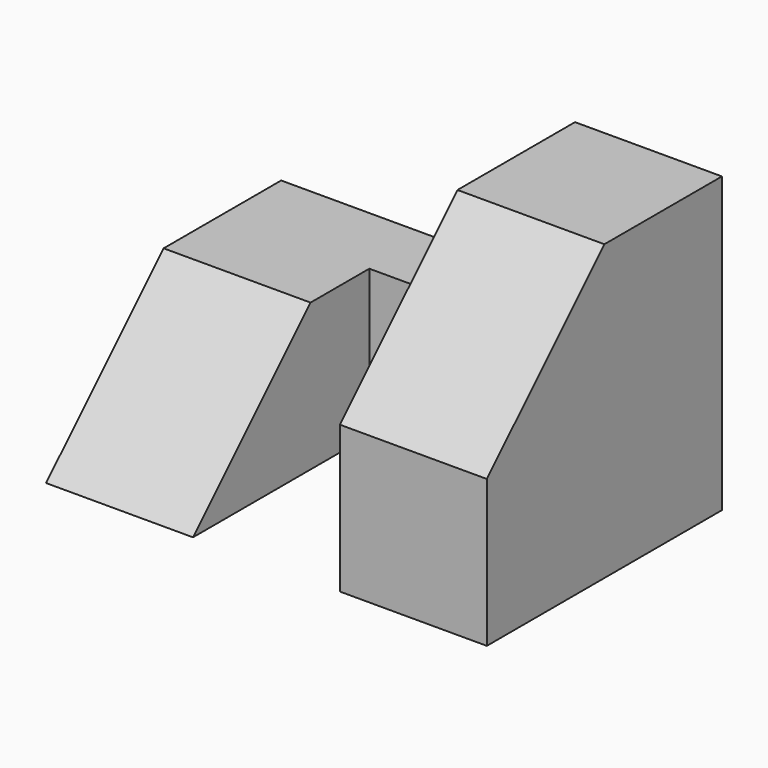
from build123d import *

# Parameters (mm, degrees)
F0_W      = 38.1
F0_H      = 25.4
F1_DEPTH  = 25.4
F3_DEPTH  = 12.7
F5_DEPTH  = 25.4
F6_W      = 12.7
F6_H      = 12.7
F7_DEPTH  = 25.4
F8_W      = 12.7
F8_H      = 12.7
F9_DEPTH  = 12.7
F11_DEPTH = 12.7


with BuildPart() as f1:
    # F0 (on Top) → F1 (new body)
    with BuildSketch(Plane.XY):
        with Locations((19.05, 12.7)):
            Rectangle(F0_W, F0_H)
    extrude(amount=F1_DEPTH)

    # F2 (on face) → F3 (cut)
    with BuildSketch(Plane.YZ.offset(38.1)):
        Polygon((12.7, 25.4), (0, 25.4), (0, 12.7), align=None)
    extrude(amount=-F3_DEPTH, mode=Mode.SUBTRACT)

    # F4 (on face) → F5 (cut)
    with BuildSketch(Plane.XY.offset(25.4)):
        Polygon((12.7, 0), (25.4, 0), (25.4, 12.7), (25.4, 19.05), (12.7, 19.05), align=None)
    extrude(amount=-F5_DEPTH, mode=Mode.SUBTRACT)

    # F6 (on face) → F7 (cut)
    with BuildSketch(Plane.XZ):
        with Locations((6.35, 19.05)):
            Rectangle(F6_W, F6_H)
    extrude(amount=-F7_DEPTH, mode=Mode.SUBTRACT)

    # F8 (on face) → F9 (cut)
    with BuildSketch(Plane.XZ.offset(-19.05)):
        with Locations((19.05, 19.05)):
            Rectangle(F8_W, F8_H)
    extrude(amount=-F9_DEPTH, mode=Mode.SUBTRACT)

    # F10 (on face) → F11 (cut)
    with BuildSketch(Plane(origin=(0, 0, 0), x_dir=(0, -1, 0), z_dir=(-1, 0, 0))):
        Polygon((0, 0), (0, 12.7), (-12.7, 12.7), align=None)
    extrude(amount=-F11_DEPTH, mode=Mode.SUBTRACT)


solid = f1.part
